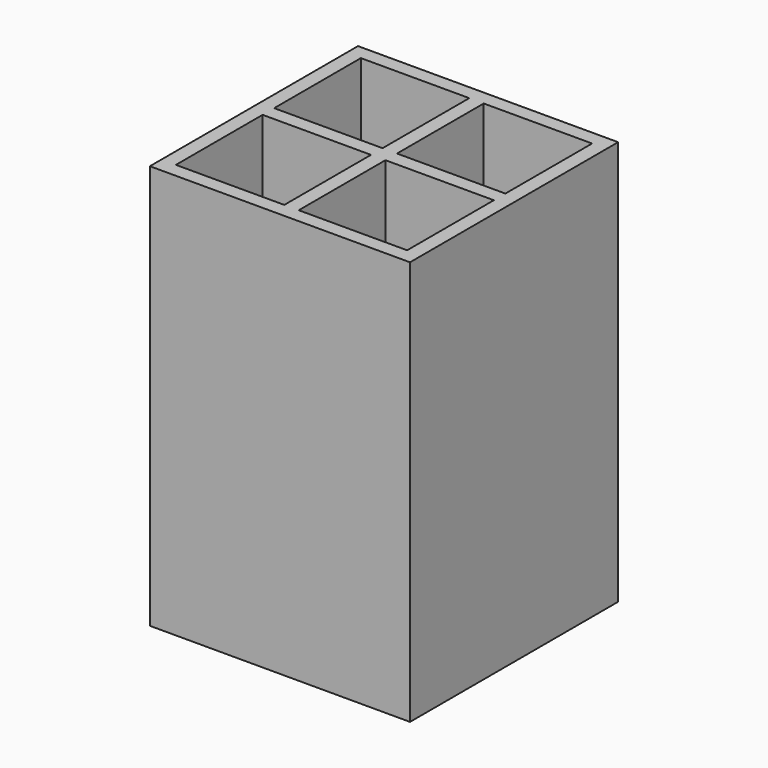
from build123d import *

# Parameters (mm, degrees)
F0_W     = 57.15
F0_H     = 88.9
F1_DEPTH = 57.15
F2_W     = 23.8125
F2_H     = 23.8125
F3_DEPTH = 85.725


with BuildPart() as f1:
    # F0 (on Front) → F1 (new body)
    with BuildSketch(Plane.XZ):
        Rectangle(F0_W, F0_H)
    extrude(amount=F1_DEPTH)

    # F2 (on face) → F3 (cut)
    with BuildSketch(Plane.XY.offset(44.45)):
        with Locations((13.49375, -15.08125)):
            Rectangle(F2_W, F2_H)
        with Locations((-13.49375, -15.08125)):
            Rectangle(F2_W, F2_H)
        with Locations((13.49375, -42.06875)):
            Rectangle(F2_W, F2_H)
        with Locations((-13.49375, -42.06875)):
            Rectangle(F2_W, F2_H)
    extrude(amount=-F3_DEPTH, mode=Mode.SUBTRACT)


solid = f1.part
